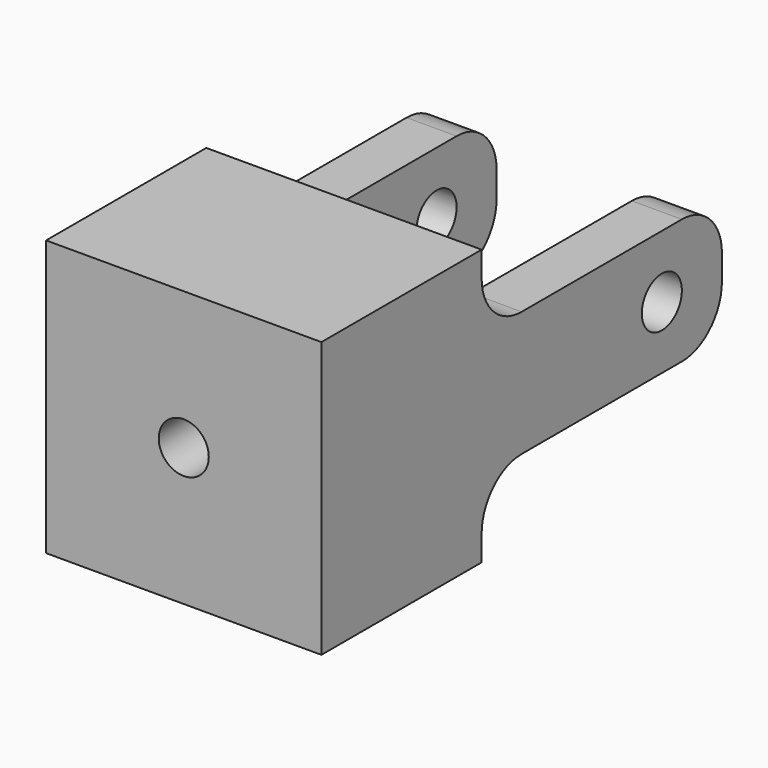
from build123d import *

# Parameters (mm, degrees)
F0_W     = 34.925
F0_H     = 63.5
F1_DEPTH = 34.925
F2_W     = 6.35
F2_H     = 9.525
F3_DEPTH = 38.1
F4_R     = 3.175
F5_DEPTH = 34.926
F6_R     = 3.175
F7_DEPTH = 25.4
F8_R     = 6.35


with BuildPart() as f1:
    # F0 (on Top) → F1 (new body)
    with BuildSketch(Plane.XY):
        Rectangle(F0_W, F0_H)
    extrude(amount=F1_DEPTH)

    # F2 (on face) → F3 (cut)
    with BuildSketch(Plane(origin=(0, 31.75, 0), x_dir=(-1, 0, 0), z_dir=(0, 1, 0))):
        with Locations((-14.2875, 30.1625)):
            Rectangle(F2_W, F2_H)
        with Locations((-14.2875, 4.7625)):
            Rectangle(F2_W, F2_H)
        with Locations((14.2875, 30.1625)):
            Rectangle(F2_W, F2_H)
        with Locations((14.2875, 4.7625)):
            Rectangle(F2_W, F2_H)
        Polygon((11.1125, 34.925), (-11.1125, 34.925), (-11.1125, 25.4), (-11.1125, 9.525), (-11.1125, 0), (11.1125, 0), (11.1125, 9.525), (11.1125, 25.4), align=None)
    extrude(amount=-F3_DEPTH, mode=Mode.SUBTRACT)

    # F4 (on face) → F5 (cut, through all)
    with BuildSketch(Plane(origin=(-17.4625, 0, 0), x_dir=(0, -1, 0), z_dir=(-1, 0, 0))):
        with Locations((-22.225, 17.4625)):
            Circle(F4_R)
    extrude(amount=-F5_DEPTH, mode=Mode.SUBTRACT)

    # F6 (on face) → F7 (cut)
    with BuildSketch(Plane.XZ.offset(31.75)):
        with Locations((0, 17.4625)):
            Circle(F6_R)
    extrude(amount=-F7_DEPTH, mode=Mode.SUBTRACT)

    # F8
    f8_edges = [f1.edges().sort_by_distance(p)[0] for p in [
        (14.2875, 31.75, 25.4),
        (14.2875, -6.35, 25.4),
        (-14.2875, -6.35, 25.4),
        (-14.2875, 31.75, 25.4),
        (-14.2875, 31.75, 9.525),
        (14.2875, 31.75, 9.525),
        (14.2875, -6.35, 9.525),
        (-14.2875, -6.35, 9.525),
        (11.1125, -6.35, 17.4625),
        (-11.1125, -6.35, 17.4625),
    ]]
    fillet(f8_edges, radius=F8_R)


solid = f1.part
